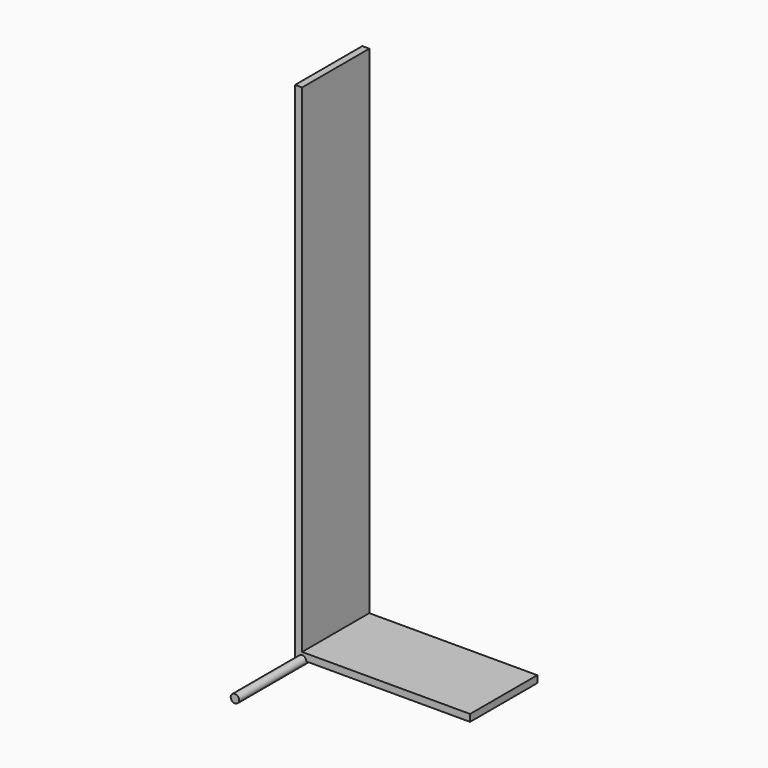
from build123d import *

# Parameters (mm, degrees)
F0_W     = 600
F0_H     = 300
F1_DEPTH = 25
F2_W     = 300
F2_H     = 1800
F3_DEPTH = 25
F4_R     = 15
F5_DEPTH = 600


with BuildPart() as f1:
    # F0 (on Top) → F1 (new body)
    with BuildSketch(Plane.XY):
        with Locations((300, -150)):
            Rectangle(F0_W, F0_H)
    extrude(amount=F1_DEPTH)


with BuildPart() as f3:
    # F2 (on Right) → F3 (new body)
    with BuildSketch(Plane.YZ):
        with Locations((-150, 900)):
            Rectangle(F2_W, F2_H)
    extrude(amount=-F3_DEPTH)


with BuildPart() as f5:
    # F4 (on Front) → F5 (new body)
    with BuildSketch(Plane.XZ):
        Circle(F4_R)
    extrude(amount=F5_DEPTH)


solid = Compound([f1.part, f3.part, f5.part])
